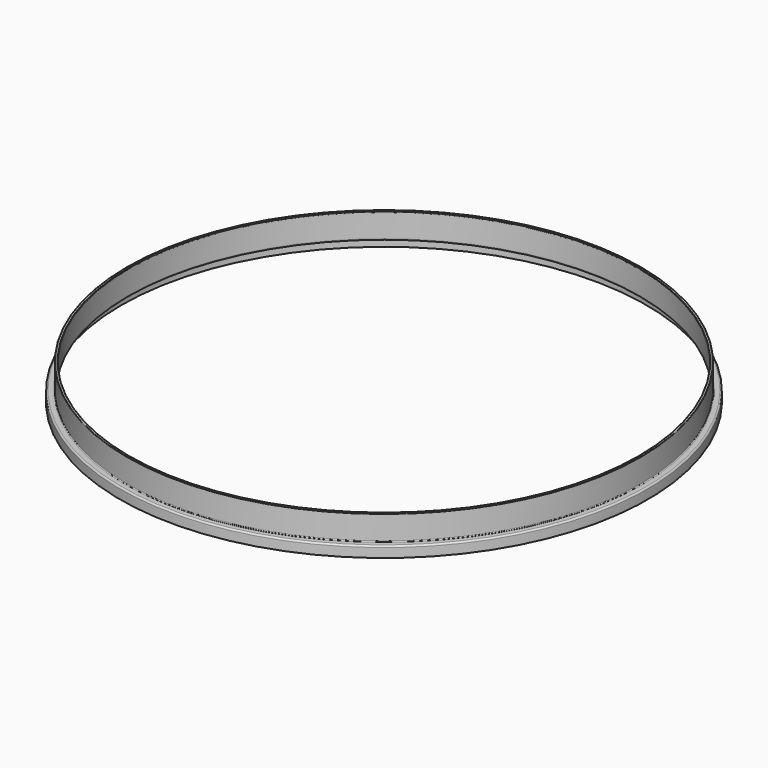
from build123d import *


with BuildPart() as f1:
    # F0 (on Front) → F1 (revolve)
    with BuildSketch(Plane.XZ):
        with BuildLine():
            Line((-166.5, 1), (-166.5, 16.4))
            ThreePointArc((-166.5, 16.4), (-166.470711, 16.470711), (-166.4, 16.5))
            Line((-166.4, 16.5), (-166.1, 16.5))
            ThreePointArc((-166.1, 16.5), (-166.029289, 16.529289), (-166, 16.6))
            Line((-166, 16.6), (-166, 16.9))
            ThreePointArc((-166, 16.9), (-166.029289, 16.970711), (-166.1, 17))
            Line((-166.1, 17), (-166.7, 17))
            Line((-166.7, 17), (-167.3, 17))
            ThreePointArc((-167.3, 17), (-167.441421, 16.941421), (-167.5, 16.8))
            Line((-167.5, 16.8), (-167.5, 1.5))
            ThreePointArc((-167.5, 1.5), (-167.646447, 1.146447), (-168, 1))
            Line((-168, 1), (-171, 1))
            ThreePointArc((-171, 1), (-171.707107, 0.707107), (-172, 0))
            Line((-172, 0), (-172, -6))
            Line((-172, -6), (-171, -6))
            Line((-171, -6), (-171, -0.5))
            ThreePointArc((-171, -0.5), (-170.853553, -0.146447), (-170.5, 0))
            Line((-170.5, 0), (-167.5, 0))
            ThreePointArc((-167.5, 0), (-166.792893, 0.292893), (-166.5, 1))
        make_face()
    revolve(axis=Axis((0, 0, 3.180012), (0, 0, -1)))


solid = f1.part
